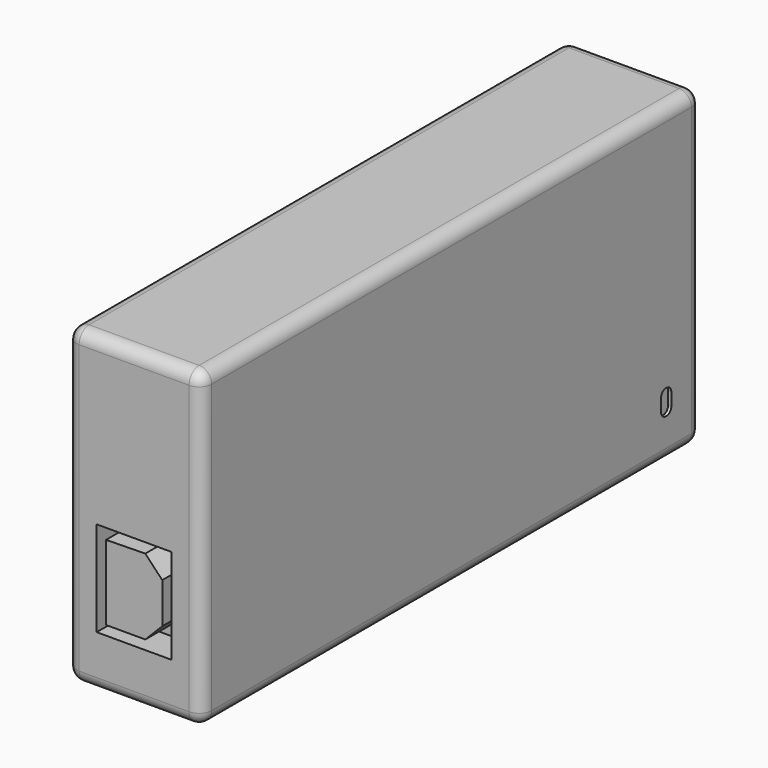
from build123d import *

# Parameters (mm, degrees)
F0_W     = 200
F0_H     = 100
F1_DEPTH = 21.6
F2_R     = 4
F4_DEPTH = 1
F5_R     = 8.5
F6_DEPTH = 10
F7_R     = 5
F8_W     = 24
F8_H     = 30.4
F9_DEPTH = 10


with BuildPart() as f1:
    # F0 (on Right) → F1 (new body, symmetric)
    with BuildSketch(Plane.YZ):
        with Locations((20.360822, 10.377156)):
            Rectangle(F0_W, F0_H)
    extrude(amount=F1_DEPTH, both=True)

    # F2
    f2_edges = [f1.edges().sort_by_distance(p)[0] for p in [
        (0, -79.639178, 60.377156),
        (-21.6, -79.639178, 10.377156),
        (-21.6, 20.360822, 60.377156),
        (21.6, 20.360822, 60.377156),
        (21.6, -79.639178, 10.377156),
        (0, -79.639178, -39.622844),
        (-21.6, 20.360822, -39.622844),
        (21.6, 20.360822, -39.622844),
        (21.6, 120.360822, 10.377156),
        (0, 120.360822, -39.622844),
        (-21.6, 120.360822, 10.377156),
        (0, 120.360822, 60.377156),
    ]]
    fillet(f2_edges, radius=F2_R)

    # F3 (on face) → F4 (cut)
    with BuildSketch(Plane.YZ.offset(21.6)):
        with BuildLine():
            Line((106.260822, -26.622844), (106.360822, -26.622844))
            ThreePointArc((106.360822, -26.622844), (107.775035, -26.037058), (108.360822, -24.622844))
            Line((108.360822, -24.622844), (108.360822, -20.622844))
            ThreePointArc((108.360822, -20.622844), (107.775035, -19.208631), (106.360822, -18.622844))
            Line((106.360822, -18.622844), (106.260822, -18.622844))
            ThreePointArc((106.260822, -18.622844), (104.846608, -19.208631), (104.260822, -20.622844))
            Line((104.260822, -20.622844), (104.260822, -24.622844))
            ThreePointArc((104.260822, -24.622844), (104.846608, -26.037058), (106.260822, -26.622844))
        make_face()
    extrude(amount=-F4_DEPTH, mode=Mode.SUBTRACT)

    # F5 (on face) → F6 (join)
    with BuildSketch(Plane(origin=(0, 120.360822, 0), x_dir=(-1, 0, 0), z_dir=(0, 1, 0))):
        with Locations((0, -6.122844)):
            Circle(F5_R)
    extrude(amount=F6_DEPTH)

    # F7
    f7_edges = [f1.edges().sort_by_distance(p)[0] for p in [
        (8.5, 130.360822, -6.122844),
    ]]
    fillet(f7_edges, radius=F7_R)

    # F8 (on face) → F9 (cut)
    with BuildSketch(Plane.XZ.offset(79.639178)):
        with Locations((0, -7.622844)):
            Rectangle(F8_W, F8_H)
        Polygon((-9, -19.822844), (-9, 4.177156), (3.575129, 4.386477), (9, -1.319719), (9, -14.319719), (3.576871, -19.822844), align=None, mode=Mode.SUBTRACT)
    extrude(amount=-F9_DEPTH, mode=Mode.SUBTRACT)


solid = f1.part
